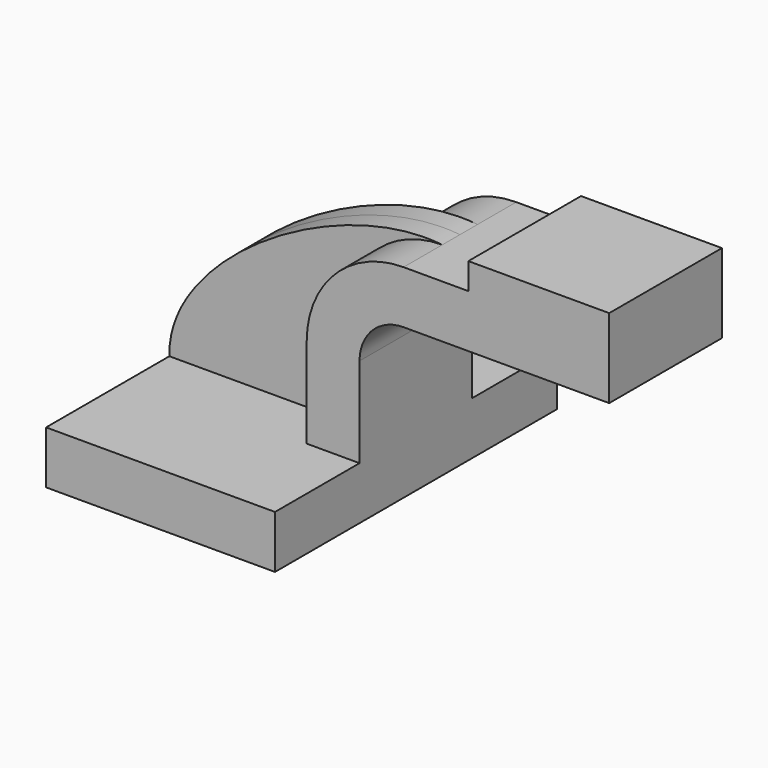
from build123d import *

# Parameters (mm, degrees)
F1_DEPTH = 63.5
F2_DEPTH = 25.4
F3_DEPTH = 25.4
F4_DEPTH = 7.9375


with BuildPart() as f1:
    # F0 (on Front) → F1 (new body, symmetric)
    with BuildSketch(Plane.XZ):
        Polygon((41.275, -9.525), (41.275, 9.525), (22.225, 9.525), (-41.275, 9.525), (-41.275, -9.525), align=None)
    extrude(amount=F1_DEPTH, both=True)

    # F0 (on Front) → F2 (join, symmetric)
    with BuildSketch(Plane.XZ):
        with BuildLine():
            Line((22.225, 9.525), (41.275, 9.525))
            Line((41.275, 9.525), (41.275, 41.979897))
            ThreePointArc((41.275, 41.979897), (45.92468, 53.205217), (57.15, 57.854897))
            Line((57.15, 57.854897), (80.508934, 57.854897))
            Line((80.508934, 57.854897), (80.508934, 76.904897))
            Line((80.508934, 76.904897), (57.15, 76.904897))
            ThreePointArc((57.15, 76.904897), (32.454296, 66.675601), (22.225, 41.979897))
            Line((22.225, 41.979897), (22.225, 9.525))
        make_face()
    extrude(amount=F2_DEPTH, both=True)

    # F0 (on Front) → F3 (join, symmetric)
    with BuildSketch(Plane.XZ):
        Polygon((80.508934, 76.904897), (80.508934, 57.854897), (131.308934, 57.854897), (131.308934, 86.429897), (80.508934, 86.429897), align=None)
    extrude(amount=F3_DEPTH, both=True)

    # F0 (on Front) → F4 (join, symmetric)
    with BuildSketch(Plane.XZ):
        with BuildLine():
            Line((-41.275, 9.525), (22.225, 9.525))
            Line((22.225, 9.525), (22.225, 41.979897))
            ThreePointArc((22.225, 41.979897), (32.454296, 66.675601), (57.15, 76.904897))
            add(Edge.make_bspline(
                [(-41.275, 9.525), (-42.17181, 43.657206), (19.351373, 81.069473), (57.15, 76.904897)],
                knots=[0, 0, 0, 0, 119.279215, 119.279215, 119.279215, 119.279215], degree=3))
        make_face()
    extrude(amount=F4_DEPTH, both=True)


solid = f1.part
